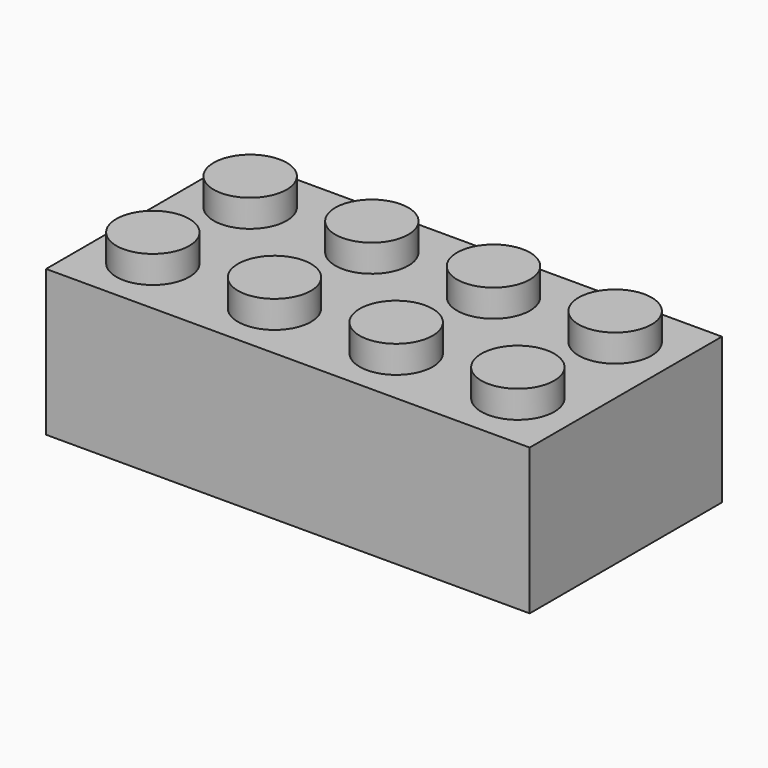
from build123d import *

# Parameters (mm, degrees)
F0_W     = 807.72
F0_H     = 401.32
F1_DEPTH = 243.84
F2_R     = 60.96
F3_DEPTH = 45.72
F6_W     = 746.76
F6_H     = 340.36
F6_R     = 82.55
F7_DEPTH = 213.36
F5_R     = 60.96
F8_DEPTH = 213.36


with BuildPart() as f1:
    # F0 (on Top) → F1 (new body)
    with BuildSketch(Plane.XY):
        with Locations((-30.785361, -15.284297)):
            Rectangle(F0_W, F0_H)
    extrude(amount=F1_DEPTH)

    # F2 (on face) → F3 (join)
    with BuildSketch(Plane.XY.offset(243.84)):
        with Locations((-335.585361, -116.884297)):
            Circle(F2_R)
        with Locations((-132.385361, 86.315703)):
            Circle(F2_R)
        with Locations((-132.385361, -116.884297)):
            Circle(F2_R)
        with Locations((70.814639, 86.315703)):
            Circle(F2_R)
        with Locations((274.014639, -116.884297)):
            Circle(F2_R)
        with Locations((70.814639, -116.884297)):
            Circle(F2_R)
        with Locations((274.014639, 86.315703)):
            Circle(F2_R)
        with Locations((-335.585361, 86.315703)):
            Circle(F2_R)
    extrude(amount=F3_DEPTH)

    # F6 (on face) → F7 (cut)
    with BuildSketch(Plane(origin=(0, 0, 0), x_dir=(1, 0, 0), z_dir=(0, 0, -1))):
        with Locations((-30.785361, 15.284297)):
            Rectangle(F6_W, F6_H)
        with Locations((-239.996924, 0)):
            Circle(F6_R, mode=Mode.SUBTRACT)
        with Locations((-36.796924, 0)):
            Circle(F6_R, mode=Mode.SUBTRACT)
        with Locations((166.403076, 0)):
            Circle(F6_R, mode=Mode.SUBTRACT)
    extrude(amount=-F7_DEPTH, mode=Mode.SUBTRACT)

    # F5 (on face) → F8 (cut)
    with BuildSketch(Plane(origin=(0, 0, 0), x_dir=(1, 0, 0), z_dir=(0, 0, -1))):
        with Locations((165.148412, 0)):
            Circle(F5_R)
        with Locations((-38.051588, 0)):
            Circle(F5_R)
        with Locations((-241.251588, 0)):
            Circle(F5_R)
    extrude(amount=-F8_DEPTH, mode=Mode.SUBTRACT)


solid = f1.part
